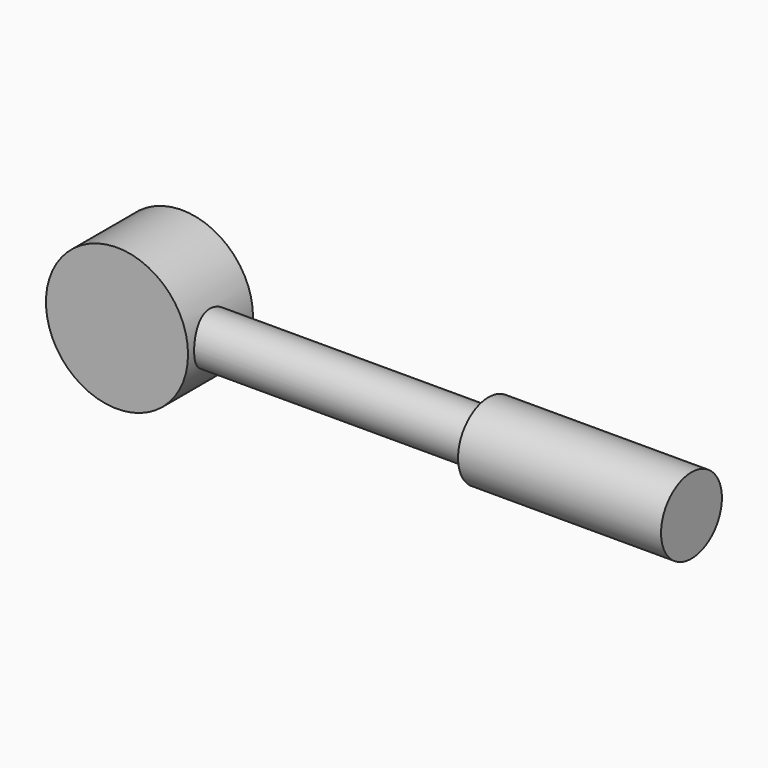
from build123d import *

# Parameters (mm, degrees)
F0_R     = 11.1125
F1_DEPTH = 12.7
F2_R     = 3.96875
F3_DEPTH = 53.975
F4_R     = 5.953125
F4_R_2   = 3.96875
F5_DEPTH = 31.75


with BuildPart() as f1:
    # F0 (on Front) → F1 (new body)
    with BuildSketch(Plane.XZ):
        Circle(F0_R)
    extrude(amount=F1_DEPTH)

    # F2 (on Right) → F3 (join)
    with BuildSketch(Plane.YZ):
        with Locations((-7.540625, 0)):
            Circle(F2_R)
    extrude(amount=F3_DEPTH)

    # F4 (on face) → F5 (join)
    with BuildSketch(Plane.YZ.offset(53.975)):
        with Locations((-7.540625, 0)):
            Circle(F4_R)
        with Locations((-7.540625, 0)):
            Circle(F4_R_2, mode=Mode.SUBTRACT)
        with Locations((-7.540625, 0)):
            Circle(F4_R_2)
    extrude(amount=F5_DEPTH)


solid = f1.part
